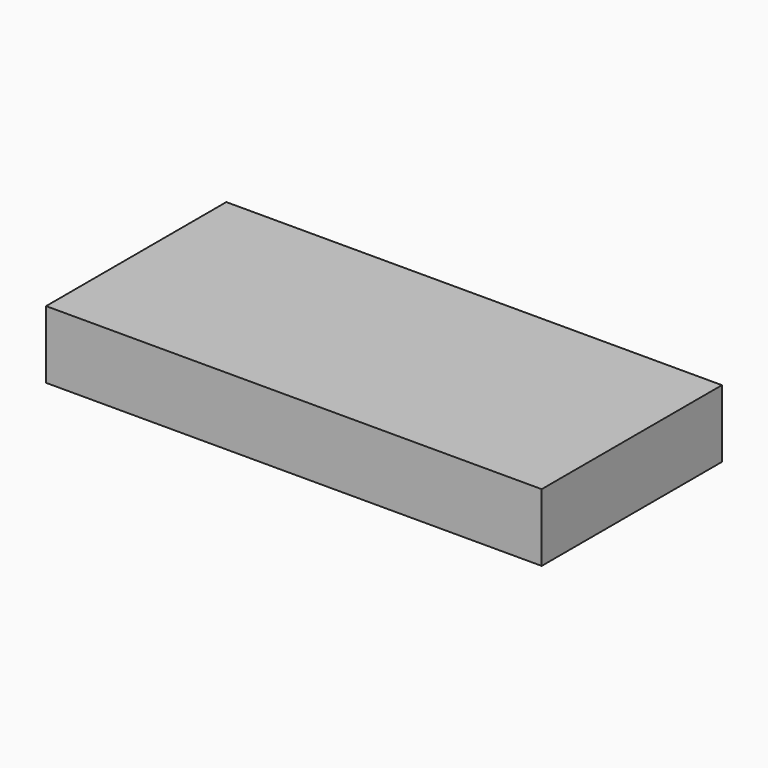
from build123d import *

# Parameters (mm, degrees)
F1_DEPTH = 9.525


with BuildPart() as f1:
    # F0 (on Top) → F1 (new body, symmetric)
    with BuildSketch(Plane.XY):
        Polygon((69.85, 31.75), (-69.85, -31.75), (69.85, -31.75), align=None)
        Polygon((-69.85, 31.75), (-69.85, -31.75), (69.85, 31.75), align=None)
    extrude(amount=F1_DEPTH, both=True)


solid = f1.part
